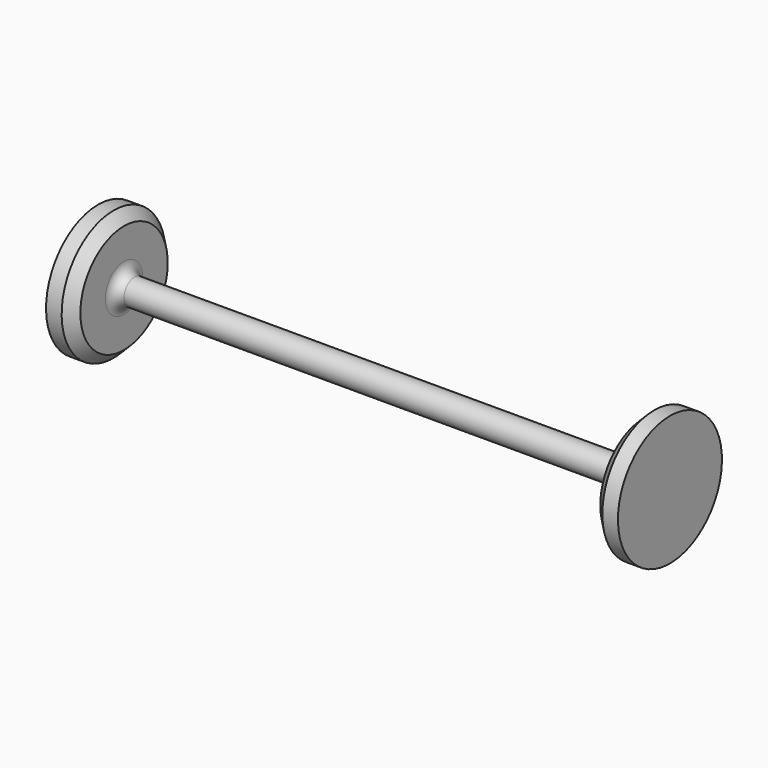
from build123d import *

# Parameters (mm, degrees)
F2_R    = 5.08
F3_SIZE = 5.08
F4_SIZE = 5.08


with BuildPart() as f1:
    # F0 (on Front) → F1 (revolve)
    with BuildSketch(Plane.XZ):
        Polygon((12.7, 25.4), (0, 25.4), (0, -6.35), (130.3428560495, -6.35), (279.4, -6.35), (279.4, 25.4), (266.7, 25.4), (266.7, 0), (12.7, 0), align=None)
    revolve(axis=Axis((139.7, 0, -6.35), (-1, 0, 0)))

    # F2
    f2_edges = [f1.edges().sort_by_distance(p)[0] for p in [
        (12.7, 0, -12.7),
        (266.7, 0, -12.7),
    ]]
    fillet(f2_edges, radius=F2_R)

    # F3
    f3_edges = [f1.edges().sort_by_distance(p)[0] for p in [
        (12.7, 0, -38.1),
    ]]
    chamfer(f3_edges, length=F3_SIZE)

    # F4
    f4_edges = [f1.edges().sort_by_distance(p)[0] for p in [
        (266.7, 0, -38.1),
    ]]
    chamfer(f4_edges, length=F4_SIZE)


solid = f1.part
